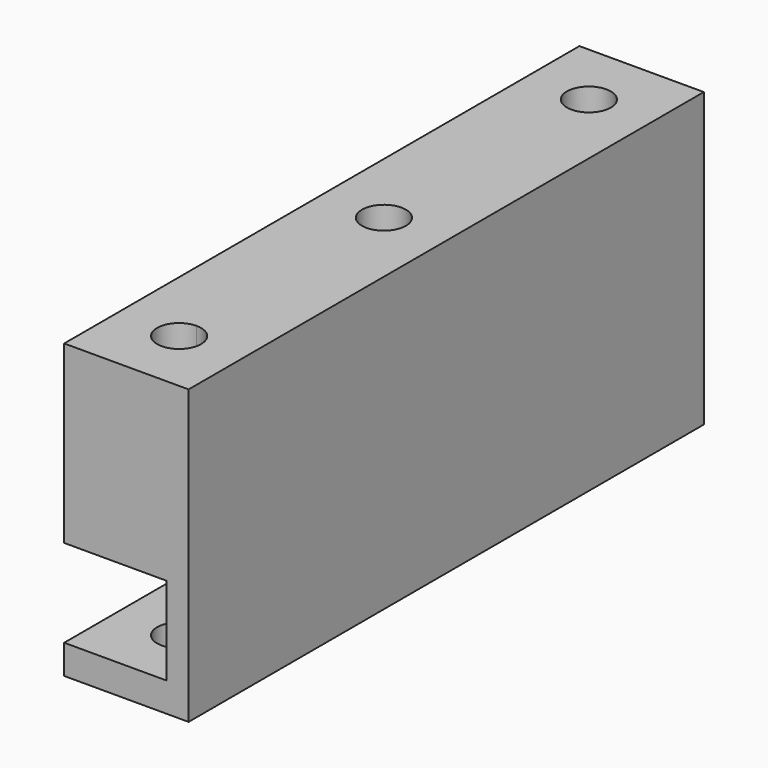
from build123d import *

# Parameters (mm, degrees)
SKETCH029_W   = 8.5
SKETCH029_H   = 44
PAD002_DEPTH  = 20
SKETCH023_R   = 1.5
HOLE004_DEPTH = 4
SKETCH032_R   = 1.5
HOLE006_DEPTH = 4
SKETCH034_W   = 44
SKETCH034_H   = 6
POCKET_DEPTH  = 7


with BuildPart() as part:
    # Sketch029 → Pad002 (new body)
    with BuildSketch(Plane.XY):
        with Locations((-4.25, 22)):
            Rectangle(SKETCH029_W, SKETCH029_H)
    extrude(amount=PAD002_DEPTH)

    # Sketch023 → Hole004 (cut)
    with BuildSketch(Plane.XY):
        with Locations((-4.250802, 4.5)):
            Circle(SKETCH023_R)
        with Locations((-4.25, 39.500714)):
            Circle(SKETCH023_R)
        with Locations((-4.254534, 22)):
            Circle(SKETCH023_R)
        with Locations((-4.25, 4.5)):
            Circle(SKETCH023_R)
    extrude(amount=HOLE004_DEPTH, mode=Mode.SUBTRACT)

    # Sketch032 (on Face5 of Hole004) → Hole006 (cut)
    with BuildSketch(Plane.XY.offset(20)):
        with Locations((-4.250802, 4.5)):
            Circle(SKETCH032_R)
        with Locations((-4.25, 39.499999)):
            Circle(SKETCH032_R)
        with Locations((-4.254534, 22)):
            Circle(SKETCH032_R)
        with Locations((-4.25, 4.5)):
            Circle(SKETCH032_R)
    extrude(amount=-HOLE006_DEPTH, mode=Mode.SUBTRACT)

    # Sketch034 (on Face3 of Hole006) → Pocket (cut)
    with BuildSketch(Plane(origin=(-8.5, 0, 0), x_dir=(0, -1, 0), z_dir=(-1, 0, 0))):
        with Locations((-22, 5)):
            Rectangle(SKETCH034_W, SKETCH034_H)
    extrude(amount=-POCKET_DEPTH, mode=Mode.SUBTRACT)


solid = part.part
